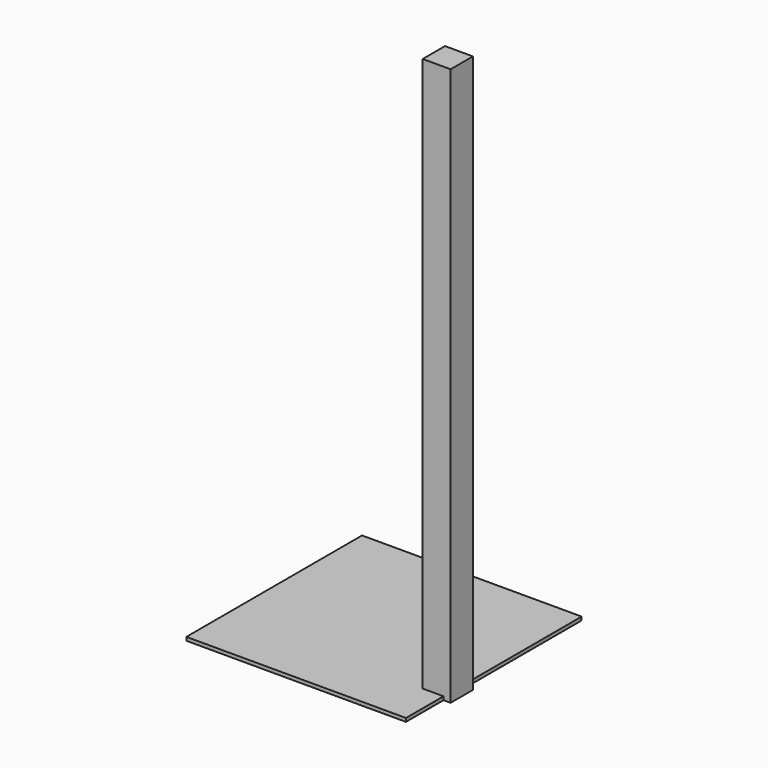
from build123d import *

# Parameters (mm, degrees)
F0_W     = 25.4
F0_H     = 25.4
F1_DEPTH = 508
F2_DEPTH = 355.6
F3_W     = 199.9996
F3_H     = 199.9996
F4_DEPTH = 3.175


with BuildPart() as f1:
    # F0 (on Top) → F1 (new body)
    with BuildSketch(Plane.XY):
        with Locations((0.54235, 2.626543)):
            Rectangle(F0_W, F0_H)
    extrude(amount=F1_DEPTH)

    # F0 (on Top) → F2 (join)
    with BuildSketch(Plane.XY):
        with Locations((0.54235, 2.626543)):
            Rectangle(F0_W, F0_H)
    extrude(amount=F2_DEPTH)

    # F3 (on Top) → F4 (join)
    with BuildSketch(Plane.XY):
        with Locations((-93.20364, 47.161473)):
            Rectangle(F3_W, F3_H)
    extrude(amount=F4_DEPTH)


solid = f1.part
